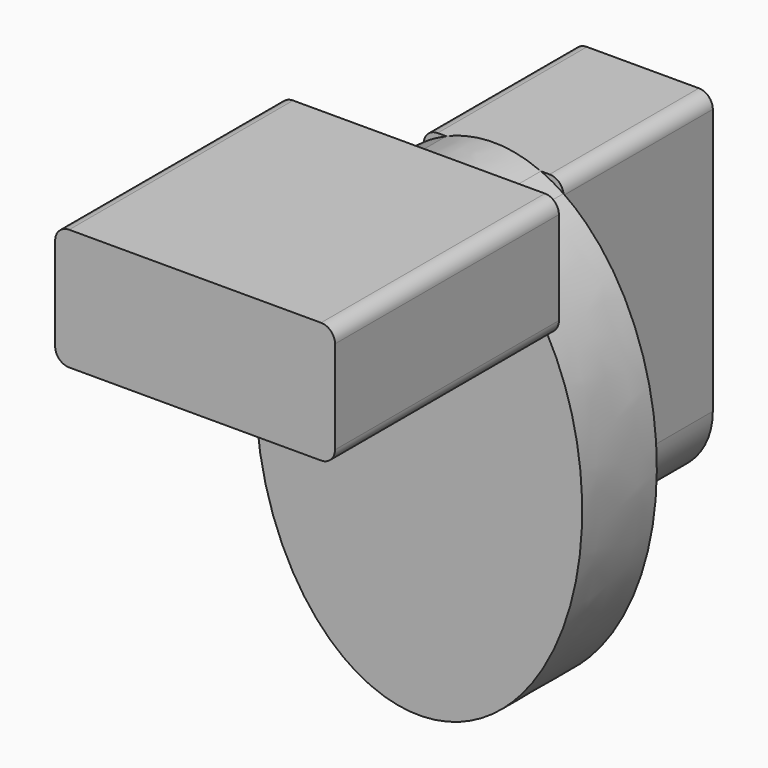
from build123d import *

# Parameters (mm, degrees)
F1_DEPTH = 50.8
F3_DEPTH = 25.4
F5_DEPTH = 76.2


with BuildPart() as f1:
    # F0 (on Front) → F1 (new body)
    with BuildSketch(Plane.XZ):
        with BuildLine():
            ThreePointArc((19.05, 32.821028), (17.934077, 35.515105), (15.24, 36.631028))
            Line((15.24, 36.631028), (-15.24, 36.631028))
            ThreePointArc((-15.24, 36.631028), (-17.934077, 35.515105), (-19.05, 32.821028))
            Line((-19.05, 32.821028), (-19.05, -39.568972))
            Line((-19.05, -39.568972), (19.05, -39.568972))
            Line((19.05, -39.568972), (19.05, 32.821028))
        make_face()
        with BuildLine():
            ThreePointArc((-19.05, -39.568972), (0, -58.618972), (19.05, -39.568972))
            Line((19.05, -39.568972), (-19.05, -39.568972))
        make_face()
    extrude(amount=F1_DEPTH)

    # F2 (on face) → F3 (join)
    with BuildSketch(Plane.XZ.offset(50.8)):
        with BuildLine():
            ThreePointArc((-19.05, 32.821028), (-19.044109, 33.032818), (-19.026454, 33.243953))
            add(Edge.make_bspline(
                [(-19.026454, 33.243953), (-69.624273, -0.990803), (-34.812137, -63.629114), (0, -126.267426), (34.812137, -63.629114), (69.624273, -0.990803), (19.026454, 33.243953)],
                knots=[0.442325, 0.442325, 0.442325, 2.241837, 2.241837, 4.041349, 4.041349, 5.84086, 5.84086, 5.84086], degree=2, weights=[1, 0.621801, 1, 0.621801, 1, 0.621801, 1]))
            ThreePointArc((19.026454, 33.243953), (19.044109, 33.032818), (19.05, 32.821028))
            Line((19.05, 32.821028), (19.05, -39.568972))
            ThreePointArc((19.05, -39.568972), (0, -58.618972), (-19.05, -39.568972))
            Line((-19.05, -39.568972), (-19.05, 32.821028))
        make_face()
        with BuildLine():
            Line((12.879918, 36.631028), (-12.879918, 36.631028))
            add(Edge.make_bspline(
                [(-12.879918, 36.631028), (-16.041278, 35.263738), (-19.026454, 33.243953)],
                knots=[0.293978, 0.293978, 0.293978, 0.442325, 0.442325, 0.442325], degree=2, weights=[1, 0.99725, 1]))
            ThreePointArc((-19.026454, 33.243953), (-19.044109, 33.032818), (-19.05, 32.821028))
            Line((-19.05, 32.821028), (-19.05, -39.568972))
            ThreePointArc((-19.05, -39.568972), (0, -58.618972), (19.05, -39.568972))
            Line((19.05, -39.568972), (19.05, 32.821028))
            ThreePointArc((19.05, 32.821028), (19.044109, 33.032818), (19.026454, 33.243953))
            add(Edge.make_bspline(
                [(19.026454, 33.243953), (16.041278, 35.263738), (12.879918, 36.631028)],
                knots=[5.84086, 5.84086, 5.84086, 5.989207, 5.989207, 5.989207], degree=2, weights=[1, 0.99725, 1]))
        make_face()
        with BuildLine():
            add(Edge.make_bspline(
                [(12.879918, 36.631028), (6.581128, 39.355257), (0, 39.355257)],
                knots=[5.989207, 5.989207, 5.989207, 6.283185, 6.283185, 6.283185], degree=2, weights=[1, 0.989217, 1]))
            add(Edge.make_bspline(
                [(0, 39.355257), (-6.581128, 39.355257), (-12.879918, 36.631028)],
                knots=[0, 0, 0, 0.293978, 0.293978, 0.293978], degree=2, weights=[1, 0.989217, 1]))
            Line((-12.879918, 36.631028), (12.879918, 36.631028))
        make_face()
    extrude(amount=F3_DEPTH)

    # F4 (on face) → F5 (join)
    with BuildSketch(Plane.XZ.offset(76.2)):
        with BuildLine():
            ThreePointArc((-38.1, 19.352757), (-37.121005, 16.802951), (-34.687134, 15.563511))
            add(Edge.make_bspline(
                [(-19.026454, 33.243953), (-28.282625, 26.981178), (-34.687134, 15.563511)],
                knots=[0.442325, 0.442325, 0.442325, 0.918738, 0.918738, 0.918738], degree=2, weights=[1, 0.899873, 0.852763]))
            add(Edge.make_bspline(
                [(-12.879918, 36.631028), (-16.041278, 35.263738), (-19.026454, 33.243953)],
                knots=[0.293978, 0.293978, 0.293978, 0.442325, 0.442325, 0.442325], degree=2, weights=[1, 0.99725, 1]))
            add(Edge.make_bspline(
                [(0, 39.355257), (-6.581128, 39.355257), (-12.879918, 36.631028)],
                knots=[0, 0, 0, 0.293978, 0.293978, 0.293978], degree=2, weights=[1, 0.989217, 1]))
            add(Edge.make_bspline(
                [(12.879918, 36.631028), (6.581128, 39.355257), (0, 39.355257)],
                knots=[5.989207, 5.989207, 5.989207, 6.283185, 6.283185, 6.283185], degree=2, weights=[1, 0.989217, 1]))
            add(Edge.make_bspline(
                [(19.026454, 33.243953), (16.041278, 35.263738), (12.879918, 36.631028)],
                knots=[5.84086, 5.84086, 5.84086, 5.989207, 5.989207, 5.989207], degree=2, weights=[1, 0.99725, 1]))
            add(Edge.make_bspline(
                [(34.687134, 15.563511), (28.282625, 26.981178), (19.026454, 33.243953)],
                knots=[5.364447, 5.364447, 5.364447, 5.84086, 5.84086, 5.84086], degree=2, weights=[0.852763, 0.899873, 1]))
            ThreePointArc((34.687134, 15.563511), (37.121005, 16.802951), (38.1, 19.352757))
            Line((38.1, 19.352757), (38.1, 44.752757))
            ThreePointArc((38.1, 44.752757), (36.984077, 47.446834), (34.29, 48.562757))
            Line((34.29, 48.562757), (-34.29, 48.562757))
            ThreePointArc((-34.29, 48.562757), (-36.984077, 47.446834), (-38.1, 44.752757))
            Line((-38.1, 44.752757), (-38.1, 19.352757))
        make_face()
        with BuildLine():
            ThreePointArc((-34.687134, 15.563511), (-34.488838, 15.547949), (-34.29, 15.542757))
            Line((-34.29, 15.542757), (34.29, 15.542757))
            ThreePointArc((34.29, 15.542757), (34.488838, 15.547949), (34.687134, 15.563511))
            add(Edge.make_bspline(
                [(34.687134, 15.563511), (28.282625, 26.981178), (19.026454, 33.243953)],
                knots=[5.364447, 5.364447, 5.364447, 5.84086, 5.84086, 5.84086], degree=2, weights=[0.852763, 0.899873, 1]))
            add(Edge.make_bspline(
                [(19.026454, 33.243953), (16.041278, 35.263738), (12.879918, 36.631028)],
                knots=[5.84086, 5.84086, 5.84086, 5.989207, 5.989207, 5.989207], degree=2, weights=[1, 0.99725, 1]))
            add(Edge.make_bspline(
                [(12.879918, 36.631028), (6.581128, 39.355257), (0, 39.355257)],
                knots=[5.989207, 5.989207, 5.989207, 6.283185, 6.283185, 6.283185], degree=2, weights=[1, 0.989217, 1]))
            add(Edge.make_bspline(
                [(0, 39.355257), (-6.581128, 39.355257), (-12.879918, 36.631028)],
                knots=[0, 0, 0, 0.293978, 0.293978, 0.293978], degree=2, weights=[1, 0.989217, 1]))
            add(Edge.make_bspline(
                [(-12.879918, 36.631028), (-16.041278, 35.263738), (-19.026454, 33.243953)],
                knots=[0.293978, 0.293978, 0.293978, 0.442325, 0.442325, 0.442325], degree=2, weights=[1, 0.99725, 1]))
            add(Edge.make_bspline(
                [(-19.026454, 33.243953), (-28.282625, 26.981178), (-34.687134, 15.563511)],
                knots=[0.442325, 0.442325, 0.442325, 0.918738, 0.918738, 0.918738], degree=2, weights=[1, 0.899873, 0.852763]))
        make_face()
    extrude(amount=F5_DEPTH)


solid = f1.part
